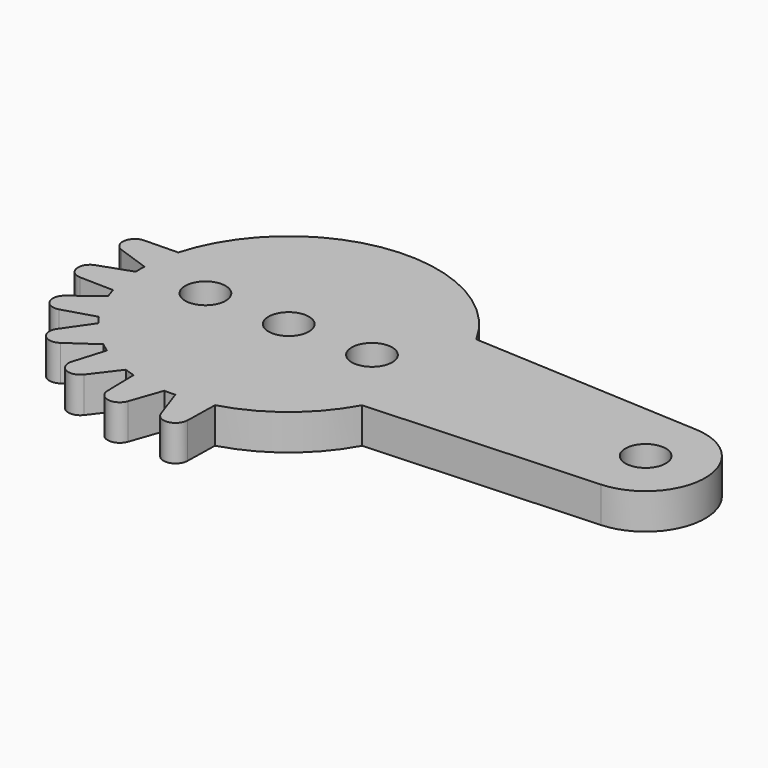
from build123d import *

# Parameters (mm, degrees)
SKETCH_R  = 1.7
PAD_DEPTH = 3


with BuildPart() as part:
    # Sketch → Pad (new body)
    with BuildSketch(Plane.XY):
        with BuildLine():
            ThreePointArc((-10.376114, -6.970384), (-10.112712, -7.347316), (-9.835625, -7.714304))
            Line((-9.835625, -7.714304), (-11.441309, -10.027096))
            ThreePointArc((-11.441309, -10.027096), (-11.325129, -11.325129), (-10.027096, -11.441309))
            Line((-10.027096, -11.441309), (-7.714304, -9.835625))
            ThreePointArc((-7.714304, -9.835625), (-7.347316, -10.112712), (-6.970384, -10.376114))
            Line((-6.970384, -10.376114), (-7.782789, -13.071894))
            ThreePointArc((-7.782789, -13.071894), (-7.271181, -14.270495), (-6.000776, -13.979875))
            Line((-6.000776, -13.979875), (-4.297364, -11.738086))
            ThreePointArc((-4.297364, -11.738086), (-3.862712, -11.888206), (-3.422833, -12.022238))
            Line((-3.422833, -12.022238), (-3.362435, -14.837123))
            ThreePointArc((-3.362435, -14.837123), (-2.505478, -15.818966), (-1.387058, -15.149992))
            Line((-1.387058, -15.149992), (-0.459768, -12.491542))
            ThreePointArc((-0.459768, -12.491542), (0, -12.5), (0.459768, -12.491542))
            Line((0.459768, -12.491542), (1.387058, -15.149992))
            ThreePointArc((1.387058, -15.149992), (2.505478, -15.818966), (3.362435, -14.837123))
            Line((3.362435, -14.837123), (3.422833, -12.022238))
            ThreePointArc((3.422833, -12.022238), (7.799066, -9.76855), (10.965856, -6))
            Line((30.259157, -5), (10.965856, -6))
            ThreePointArc((30.259157, -5), (35.006712, 0), (30.259157, 5))
            Line((10.965856, 6), (30.259157, 5))
            ThreePointArc((10.965856, 6), (-1.392635, 12.42218), (-12.022238, 3.422833))
            Line((-12.022238, 3.422833), (-14.837123, 3.362435))
            ThreePointArc((-14.837123, 3.362435), (-15.818966, 2.505478), (-15.149992, 1.387058))
            Line((-15.149992, 1.387058), (-12.491542, 0.459768))
            ThreePointArc((-12.491542, 0.459768), (-12.5, 0), (-12.491542, -0.459768))
            Line((-12.491542, -0.459768), (-15.149992, -1.387058))
            ThreePointArc((-15.149992, -1.387058), (-15.818966, -2.505478), (-14.837123, -3.362435))
            Line((-14.837123, -3.362435), (-12.022238, -3.422833))
            ThreePointArc((-12.022238, -3.422833), (-11.888206, -3.862712), (-11.738086, -4.297364))
            Line((-11.738086, -4.297364), (-13.979875, -6.000776))
            ThreePointArc((-13.979875, -6.000776), (-14.270495, -7.271181), (-13.071894, -7.782789))
            Line((-13.071894, -7.782789), (-10.376114, -6.970384))
        make_face()
        Circle(SKETCH_R, mode=Mode.SUBTRACT)
        with Locations((7, 0)):
            Circle(SKETCH_R, mode=Mode.SUBTRACT)
        with Locations((-7, 0)):
            Circle(SKETCH_R, mode=Mode.SUBTRACT)
        with Locations((30, 0)):
            Circle(SKETCH_R, mode=Mode.SUBTRACT)
    extrude(amount=PAD_DEPTH)


solid = part.part
